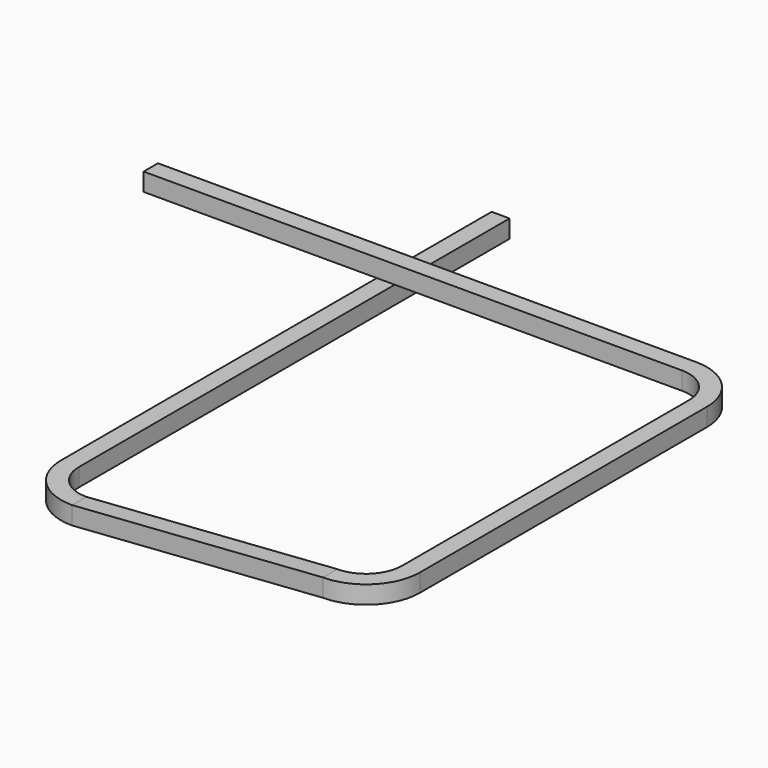
from build123d import *

# Parameters (mm, degrees)
F0_W      = 50
F0_H      = 50
F1_DEPTH  = 500
F3_W      = 50
F3_H      = 50
F4_ANGLE  = 90
F5_ANGLE  = 90
F4_FACE_W = 50
F4_FACE_H = 50
F5_FACE_W = 50
F5_FACE_H = 50
F7_DEPTH  = 500
F8_W      = 50
F8_H      = 50
F9_ANGLE  = 90
F10_DEPTH = 1500


with BuildPart() as f1:
    # F0 (on Front) → F1 (new body, symmetric)
    with BuildSketch(Plane.XZ):
        with Locations((475, 25)):
            Rectangle(F0_W, F0_H)
    extrude(amount=F1_DEPTH, both=True)

    # F3 (on offset) → F5 (revolve)
    with BuildSketch(Plane.XZ.offset(500)):
        with Locations((475, 25)):
            Rectangle(F3_W, F3_H)
    revolve(axis=Axis((350, -500, -3.7102438509), (0, 0, -1)), revolution_arc=F5_ANGLE)



with BuildPart() as f1b:
    # F0 (on Front) → F1, piece 2 (new body, symmetric)
    with BuildSketch(Plane.XZ):
        with Locations((-475, -25)):
            Rectangle(F0_W, F0_H)
    extrude(amount=F1_DEPTH, both=True)

    # F3 (on offset) → F4 (revolve)
    with BuildSketch(Plane.XZ.offset(500)):
        with Locations((-475, -25)):
            Rectangle(F3_W, F3_H)
    revolve(axis=Axis((-350, -500, -32.6501708478), (0, 0, 1)), revolution_arc=F4_ANGLE)


with BuildPart() as f1_1:
    add(f1.part)

    add(f1b.part)  # F6 merges F1b
    # F4_face (on face) → F6 section 0
    with BuildSketch(Plane(origin=(-350, -625, -25), x_dir=(0, 1, 0), z_dir=(1, 0, 0))):
        Rectangle(F4_FACE_W, F4_FACE_H)
    # F5_face (on face) → F6 section 1
    with BuildSketch(Plane(origin=(350, -625, 25), x_dir=(0, -1, 0), z_dir=(-1, 0, 0))):
        Rectangle(F5_FACE_W, F5_FACE_H)
    loft()

    # F7 (add): a face of the model
    f7_faces = [f1_1.faces().sort_by_distance(p)[0] for p in [
        (-475, 500, -25),
    ]]
    extrude(f7_faces, amount=F7_DEPTH)

    # F8 (on face) → F9 (revolve)
    with BuildSketch(Plane(origin=(0, 500, 0), x_dir=(-1, 0, 0), z_dir=(0, 1, 0))):
        with Locations((-475, 25)):
            Rectangle(F8_W, F8_H)
    revolve(axis=Axis((350, 500, -1.4840960503), (0, 0, 1)), revolution_arc=F9_ANGLE)

    # F10 (add): a face of the model
    f10_faces = [f1_1.faces().sort_by_distance(p)[0] for p in [
        (350, 625, 25),
    ]]
    extrude(f10_faces, amount=F10_DEPTH)


solid = f1_1.part
